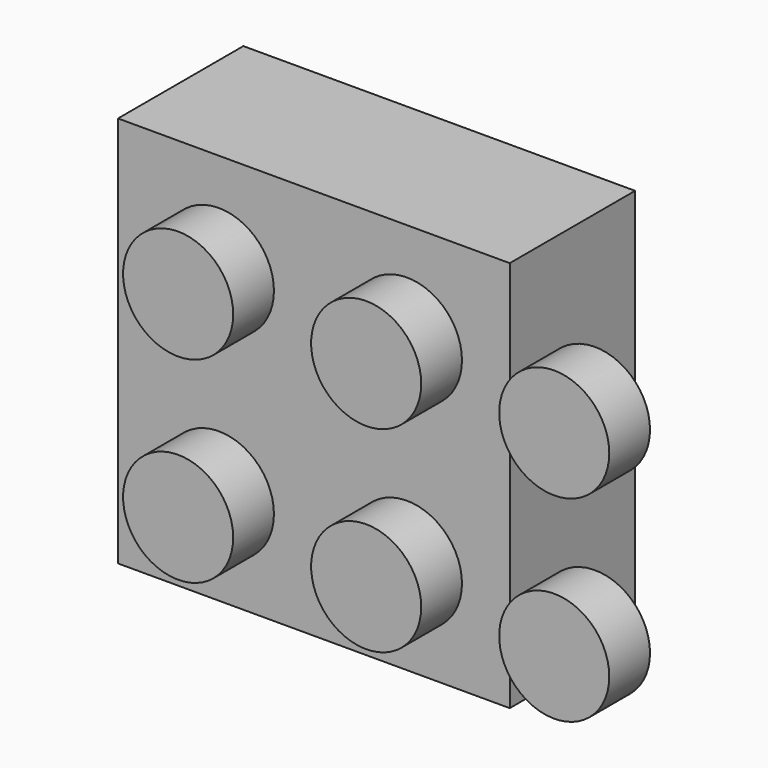
from build123d import *

# Parameters (mm, degrees)
F0_W     = 25.4
F0_H     = 25.4
F1_DEPTH = 10.16
F2_R     = 3.5687
F3_DEPTH = 3.302
F4_T     = -2.54
F5_R     = 5.0826092398
F5_R_2   = 3.2535750666
F6_DEPTH = 6.858


with BuildPart() as f1:
    # F0 (on Front) → F1 (new body)
    with BuildSketch(Plane.XZ):
        with Locations((-35.9135796316, 15.5098860579)):
            Rectangle(F0_W, F0_H)
    extrude(amount=F1_DEPTH)

    # F2 (on face) → F3 (join)
    with BuildSketch(Plane.XZ.offset(10.16)):
        with Locations((-42.0731604099, 21.6575805098)):
            Circle(F2_R)
        with Locations((-42.0731604099, 8.915132843)):
            Circle(F2_R)
        with Locations((-29.8811604099, 21.6575805098)):
            Circle(F2_R)
        with Locations((-29.8811604099, 8.915132843)):
            Circle(F2_R)
    extrude(amount=F3_DEPTH)

    # F4
    f4_openings = [f1.faces().sort_by_distance(p)[0] for p in [
        (-35.91358, 0, 15.509886),
    ]]
    offset(amount=F4_T, openings=f4_openings, kind=Kind.INTERSECTION)

    # F5 (on face) → F6 (join)
    with BuildSketch(Plane(origin=(0, -7.62, 0), x_dir=(-1, 0, 0), z_dir=(0, 1, 0))):
        with Locations((36.2166501582, 15.3049435467)):
            Circle(F5_R)
        with Locations((36.2166501582, 15.3049435467)):
            Circle(F5_R_2, mode=Mode.SUBTRACT)
    extrude(amount=F6_DEPTH)


with BuildPart() as f3:
    # F2 (on face) → F3, piece 2 (new body)
    with BuildSketch(Plane.XZ.offset(10.16)):
        with Locations((-17.6891604099, 21.6575805098)):
            Circle(F2_R)
    extrude(amount=F3_DEPTH)


with BuildPart() as f3b:
    # F2 (on face) → F3, piece 3 (new body)
    with BuildSketch(Plane.XZ.offset(10.16)):
        with Locations((-17.6891604099, 8.915132843)):
            Circle(F2_R)
    extrude(amount=F3_DEPTH)


solid = Compound([f1.part, f3.part, f3b.part])
